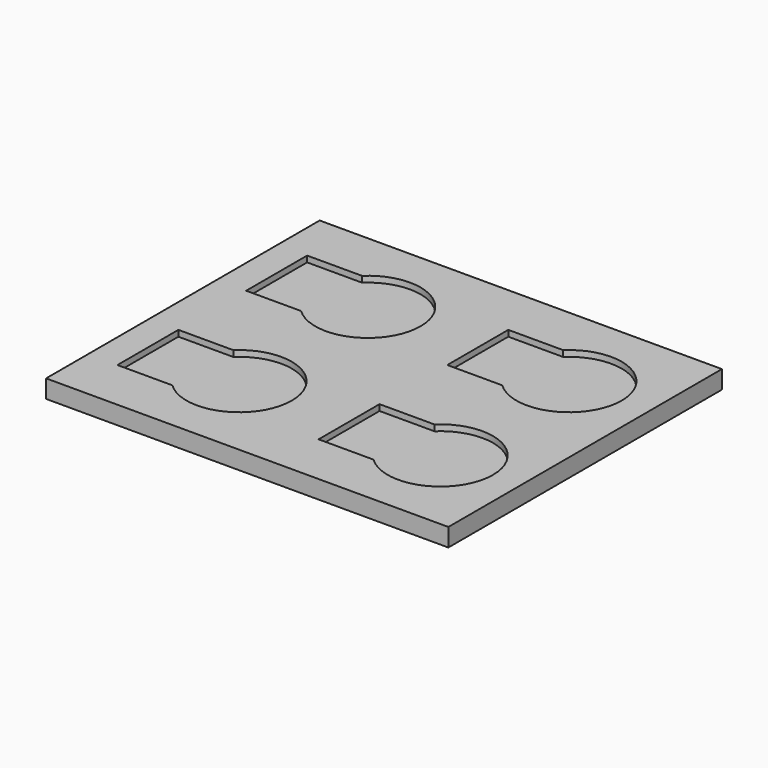
from build123d import *

# Parameters (mm, degrees)
F0_W     = 100
F0_H     = 85
F1_DEPTH = 6
F2_W     = 200
F2_H     = 170
F3_DEPTH = 3


with BuildPart() as f1:
    # F0 (on Top) → F1 (new body)
    with BuildSketch(Plane.XY):
        Polygon((0, 85), (-100, 85), (-100, -85), (100, -85), (100, 0), (0, 0), align=None)
        with Locations((50, 42.5)):
            Rectangle(F0_W, F0_H)
    extrude(amount=F1_DEPTH)

    # F2 (on face) → F3 (join)
    with BuildSketch(Plane.XY.offset(6)):
        Rectangle(F2_W, F2_H)
        with BuildLine():
            ThreePointArc((-58.066738, -21.06), (-13.825, -40), (-58.066738, -58.94))
            Line((-58.066738, -58.94), (-85.375, -58.94))
            Line((-85.375, -58.94), (-85.375, -21.06))
            Line((-85.375, -21.06), (-58.066738, -21.06))
        make_face(mode=Mode.SUBTRACT)
        with BuildLine():
            ThreePointArc((41.933262, -21.06), (86.175, -40), (41.933262, -58.94))
            Line((41.933262, -58.94), (14.625, -58.94))
            Line((14.625, -58.94), (14.625, -21.06))
            Line((14.625, -21.06), (41.933262, -21.06))
        make_face(mode=Mode.SUBTRACT)
        with BuildLine():
            ThreePointArc((-58.066738, 58.94), (-13.825, 40), (-58.066738, 21.06))
            Line((-58.066738, 21.06), (-85.375, 21.06))
            Line((-85.375, 21.06), (-85.375, 58.94))
            Line((-85.375, 58.94), (-58.066738, 58.94))
        make_face(mode=Mode.SUBTRACT)
        with BuildLine():
            ThreePointArc((41.933262, 58.94), (86.175, 40), (41.933262, 21.06))
            Line((41.933262, 21.06), (14.625, 21.06))
            Line((14.625, 21.06), (14.625, 58.94))
            Line((14.625, 58.94), (41.933262, 58.94))
        make_face(mode=Mode.SUBTRACT)
    extrude(amount=F3_DEPTH)


solid = f1.part
